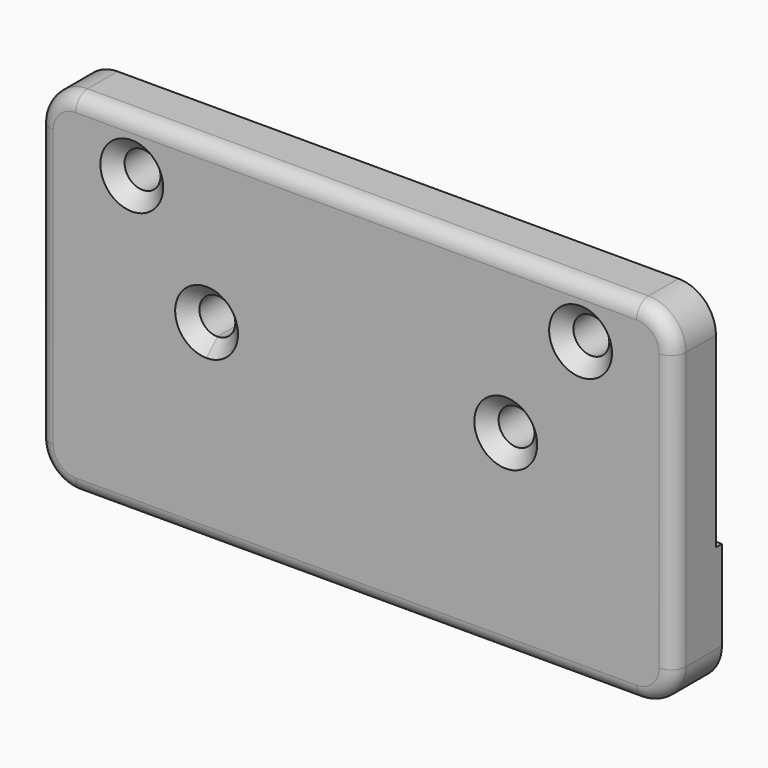
from build123d import *

# Parameters (mm, degrees)
F0_R     = 2.4
F1_DEPTH = 7
F2_W     = 85
F2_H     = 17
F3_DEPTH = 1
F4_R     = 5
F5_R     = 2
F6_SIZE  = 1.8


with BuildPart() as f1:
    # F0 (on Front) → F1 (new body)
    with BuildSketch(Plane.XZ):
        Polygon((42.5, -23.5), (42.5, 23.5), (-42.5, 23.5), (-42.5, -23.5), (-20, -23.5), align=None)
        with BuildLine():
            ThreePointArc((-17.6, 2.5), (-18.3029437252, 0.8029437252), (-20, 0.1))
            ThreePointArc((-20, 0.1), (-21.6970562748, 4.1970562748), (-17.6, 2.5))
        make_face(mode=Mode.SUBTRACT)
        with Locations((-30, 16.5)):
            Circle(F0_R, mode=Mode.SUBTRACT)
        with Locations((20, 2.5)):
            Circle(F0_R, mode=Mode.SUBTRACT)
        with Locations((30, 16.5)):
            Circle(F0_R, mode=Mode.SUBTRACT)
    extrude(amount=F1_DEPTH)

    # F2 (on face) → F3 (join)
    with BuildSketch(Plane(origin=(0, 0, 0), x_dir=(-1, 0, 0), z_dir=(0, 1, 0))):
        with Locations((0, -15)):
            Rectangle(F2_W, F2_H)
    extrude(amount=F3_DEPTH)

    # F4
    f4_edges = [f1.edges().sort_by_distance(p)[0] for p in [
        (42.5, -3.5, 23.5),
        (-42.5, -3.5, 23.5),
        (42.5, -3, -23.5),
        (-42.5, -3, -23.5),
    ]]
    fillet(f4_edges, radius=F4_R)

    # F5
    f5_edges = [f1.edges().sort_by_distance(p)[0] for p in [
        (0, -7, -23.5),
    ]]
    fillet(f5_edges, radius=F5_R)

    # F6
    f6_edges = [f1.edges().sort_by_distance(p)[0] for p in [
        (17.6, -7, 2.5),
        (27.6, -7, 16.5),
        (-22.4, -7, 2.5),
        (-32.4, -7, 16.5),
    ]]
    chamfer(f6_edges, length=F6_SIZE)


solid = f1.part
